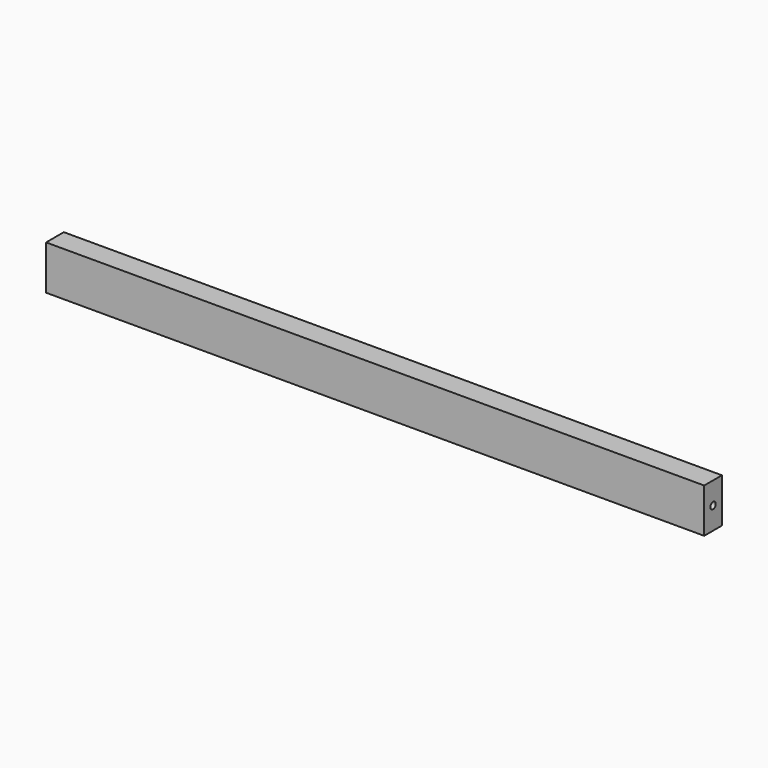
from build123d import *

# Parameters (mm, degrees)
F0_W     = 594
F0_H     = 40
F1_DEPTH = 20
F2_R     = 3
F3_DEPTH = 12
F4_R     = 3
F5_DEPTH = 12


with BuildPart() as f1:
    # F0 (on Front) → F1 (new body)
    with BuildSketch(Plane.XZ):
        with Locations((166.269565, 20)):
            Rectangle(F0_W, F0_H)
    extrude(amount=F1_DEPTH)

    # F2 (on face) → F3 (cut)
    with BuildSketch(Plane.YZ.offset(463.269565)):
        with Locations((-10, 20)):
            Circle(F2_R)
    extrude(amount=-F3_DEPTH, mode=Mode.SUBTRACT)

    # F4 (on face) → F5 (cut)
    with BuildSketch(Plane(origin=(-130.730435, 0, 0), x_dir=(0, -1, 0), z_dir=(-1, 0, 0))):
        with Locations((10, 20)):
            Circle(F4_R)
    extrude(amount=-F5_DEPTH, mode=Mode.SUBTRACT)


solid = f1.part
